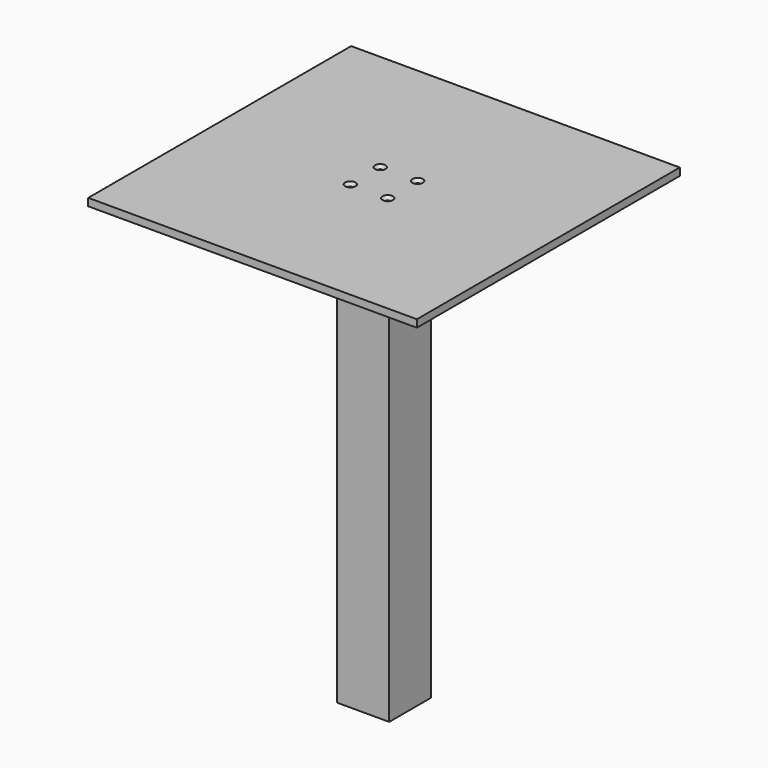
from build123d import *

# Parameters (mm, degrees)
F0_W     = 558.8
F0_H     = 558.8
F0_W_2   = 88.9
F0_H_2   = 88.9
F0_R     = 3.81
F1_DEPTH = 12.7
F2_SIZE  = 5.08
F3_DEPTH = 762


with BuildPart() as f1:
    # F0 (on Top) → F1 (new body)
    with BuildSketch(Plane.XY):
        Rectangle(F0_W, F0_H)
        Rectangle(F0_W_2, F0_H_2, mode=Mode.SUBTRACT)
        Rectangle(F0_W_2, F0_H_2)
        with Locations((-31.75, -31.75)):
            Circle(F0_R, mode=Mode.SUBTRACT)
        with Locations((31.75, -31.75)):
            Circle(F0_R, mode=Mode.SUBTRACT)
        with Locations((-31.75, 31.75)):
            Circle(F0_R, mode=Mode.SUBTRACT)
        with Locations((31.75, 31.75)):
            Circle(F0_R, mode=Mode.SUBTRACT)
    extrude(amount=F1_DEPTH)

    # F2
    f2_edges = [f1.edges().sort_by_distance(p)[0] for p in [
        (-35.56, -31.75, 12.7),
        (27.94, -31.75, 12.7),
        (27.94, 31.75, 12.7),
        (-35.56, 31.75, 12.7),
    ]]
    chamfer(f2_edges, length=F2_SIZE)


with BuildPart() as f3:
    # F0 (on Top) → F3 (new body)
    with BuildSketch(Plane.XY):
        Rectangle(F0_W_2, F0_H_2)
        with Locations((-31.75, -31.75)):
            Circle(F0_R, mode=Mode.SUBTRACT)
        with Locations((31.75, -31.75)):
            Circle(F0_R, mode=Mode.SUBTRACT)
        with Locations((-31.75, 31.75)):
            Circle(F0_R, mode=Mode.SUBTRACT)
        with Locations((31.75, 31.75)):
            Circle(F0_R, mode=Mode.SUBTRACT)
    extrude(amount=-F3_DEPTH)


solid = Compound([f1.part, f3.part])
